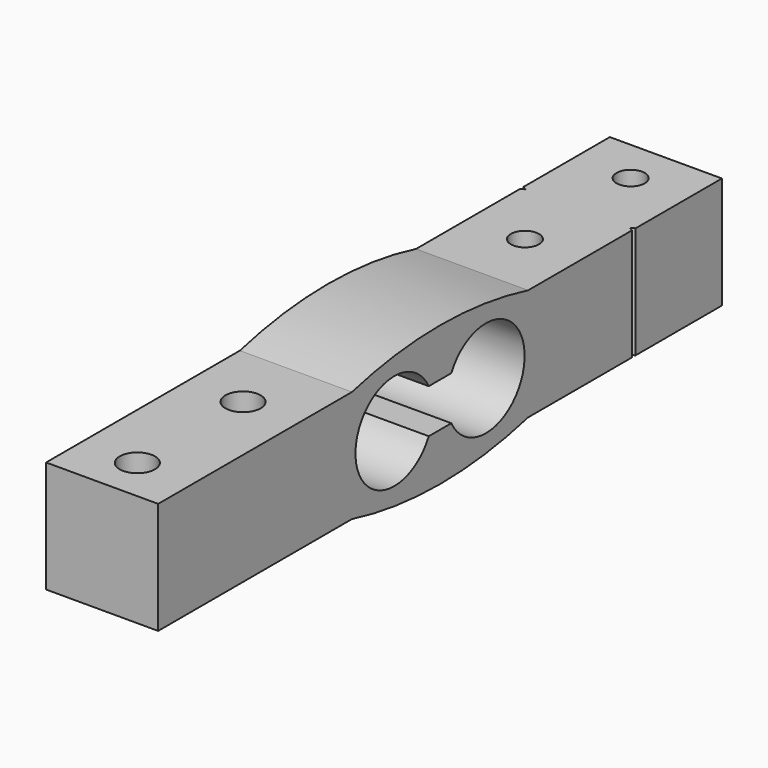
from build123d import *

# Parameters (mm, degrees)
F1_DEPTH = 6.3625
F2_R     = 2
F2_R_2   = 1.6
F3_DEPTH = 14.2887081724


with BuildPart() as f1:
    # F0 (on Right) → F1 (new body, symmetric)
    with BuildSketch(Plane.YZ):
        with BuildLine():
            Line((40, -6.35), (40, 6.35))
            Line((40, 6.35), (12.5, 6.35))
            ThreePointArc((12.5, 6.35), (0, 7.9377081724), (-12.5, 6.35))
            Line((-12.5, 6.35), (-40, 6.35))
            Line((-40, 6.35), (-40, -6.35))
            Line((-40, -6.35), (-12.5, -6.35))
            ThreePointArc((-12.5, -6.35), (0, -7.9377081724), (12.5, -6.35))
            Line((12.5, -6.35), (40, -6.35))
        make_face()
        with BuildLine():
            ThreePointArc((1.6010205144, 2.5), (12, 0), (1.6010205144, -2.5))
            Line((1.6010205144, -2.5), (-1.6010205144, -2.5))
            ThreePointArc((-1.6010205144, -2.5), (-12, 0), (-1.6010205144, 2.5))
            Line((-1.6010205144, 2.5), (1.6010205144, 2.5))
        make_face(mode=Mode.SUBTRACT)
    extrude(amount=F1_DEPTH, both=True)

    # F2 (on face) → F3 (cut, through all)
    with BuildSketch(Plane.XY.offset(6.35)):
        with Locations((0, -20)):
            Circle(F2_R)
        with Locations((0, -35)):
            Circle(F2_R)
        with Locations((0, 20)):
            Circle(F2_R_2)
        with Locations((0, 35)):
            Circle(F2_R_2)
        Polygon((6.3625, 27.25), (6.3625, 27.75), (5.9294872981, 27.5), align=None)
        Polygon((-5.9294872981, 27.5), (-6.3625, 27.75), (-6.3625, 27.25), align=None)
    extrude(amount=-F3_DEPTH, mode=Mode.SUBTRACT)


solid = f1.part
